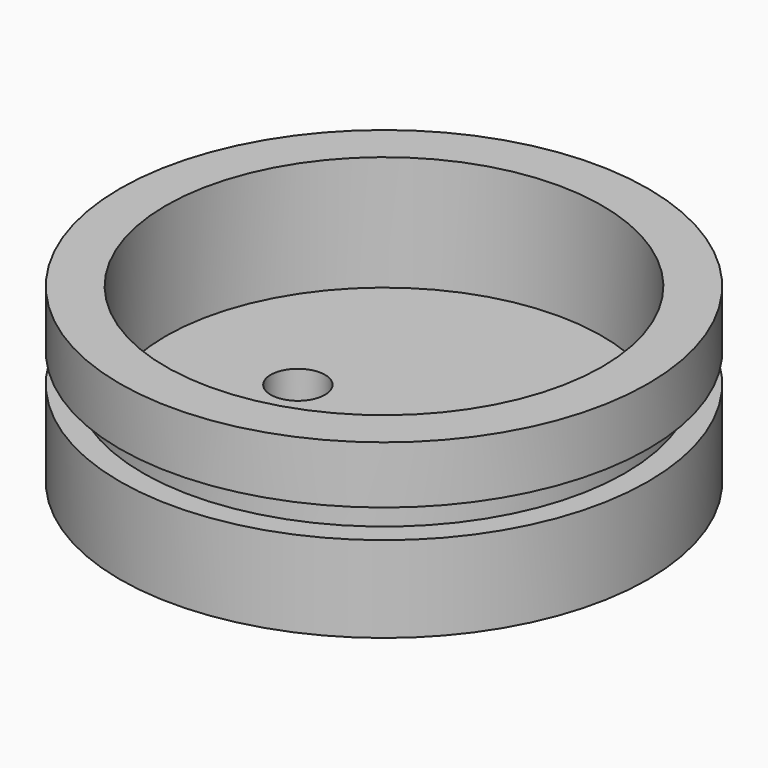
from build123d import *

# Parameters (mm, degrees)
F0_R     = 14.605
F0_R_2   = 12.065
F1_DEPTH = 9.525
F0_R_3   = 1.5
F2_DEPTH = 3.175
F4_R     = 18.379294
F4_R_2   = 13.335
F5_DEPTH = 1.5875


with BuildPart() as f1:
    # F0 (on Top) → F1 (new body)
    with BuildSketch(Plane.XY):
        Circle(F0_R)
        Circle(F0_R_2, mode=Mode.SUBTRACT)
    extrude(amount=F1_DEPTH)

    # F0 (on Top) → F2 (join)
    with BuildSketch(Plane.XY):
        Circle(F0_R_2)
        with Locations((-4.7625, 0)):
            Circle(F0_R_3, mode=Mode.SUBTRACT)
        with Locations((4.7625, 0)):
            Circle(F0_R_3, mode=Mode.SUBTRACT)
    extrude(amount=F2_DEPTH)

    # F4 (on offset) → F5 (cut)
    with BuildSketch(Plane.XY.offset(6.35)):
        Circle(F4_R)
        Circle(F4_R_2, mode=Mode.SUBTRACT)
    extrude(amount=-F5_DEPTH, mode=Mode.SUBTRACT)


solid = f1.part
